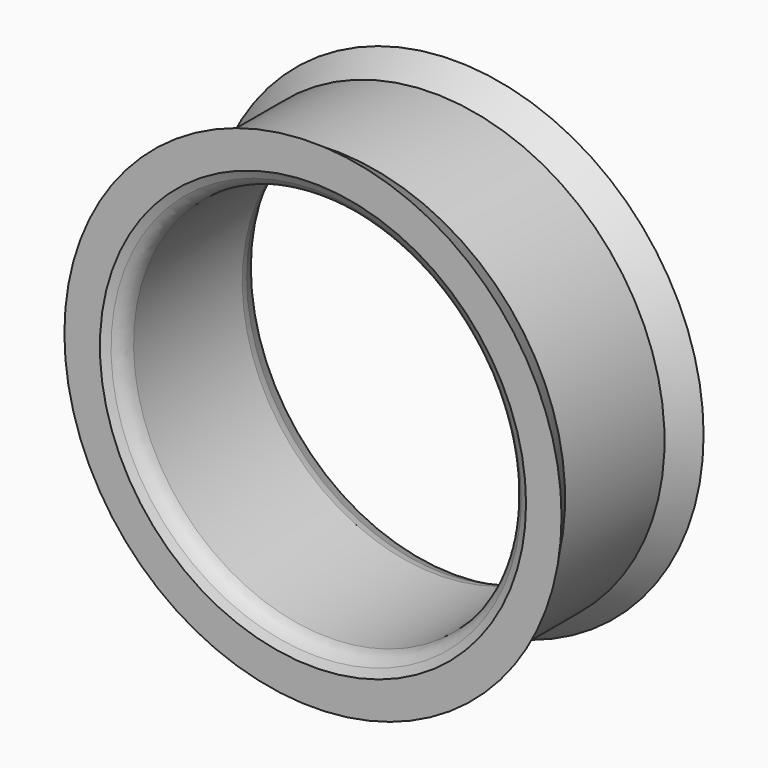
from build123d import *

# Parameters (mm, degrees)
SKETCH001_R     = 11
POCKET_DEPTH    = 10
CHAMFER_1_SIZE2 = 0.5
CHAMFER_1_SIZE  = 1
CHAMFER_2_SIZE2 = 0.5
CHAMFER_2_SIZE  = 1
FILLET_R        = 1


with BuildPart() as part:
    # Sketch → Revolution (revolve)
    with BuildSketch(Plane.XY):
        Polygon((0, 0), (-14, 0), (-13, 1.5), (-13, 8.5), (-14, 10), (0, 10), align=None)
    revolve(axis=Axis((0, 0, 0), (0, 1, 0)))

    # Sketch001 (on Face1 of Revolution) → Pocket (cut)
    with BuildSketch(Plane.XZ):
        Circle(SKETCH001_R)
    extrude(amount=-POCKET_DEPTH, mode=Mode.SUBTRACT)

    # Chamfer 1
    chamfer_1_edges = [part.edges().sort_by_distance(p)[0] for p in [
        (-11, 10, 0),
    ]]
    chamfer_1_side = part.faces().sort_by_distance((-11, 5, 0))[0]
    chamfer(chamfer_1_edges, length=CHAMFER_1_SIZE, length2=CHAMFER_1_SIZE2, reference=chamfer_1_side)

    # Chamfer 2
    chamfer_2_edges = [part.edges().sort_by_distance(p)[0] for p in [
        (-11, 0, 0),
    ]]
    chamfer_2_side = part.faces().sort_by_distance((13.60402, 0, 0))[0]
    chamfer(chamfer_2_edges, length=CHAMFER_2_SIZE, length2=CHAMFER_2_SIZE2, reference=chamfer_2_side)

    # Fillet
    fillet_edges = [part.edges().sort_by_distance(p)[0] for p in [
        (-11, 9, 0),
        (-11, 0.5, 0),
    ]]
    fillet(fillet_edges, radius=FILLET_R)


solid = part.part
